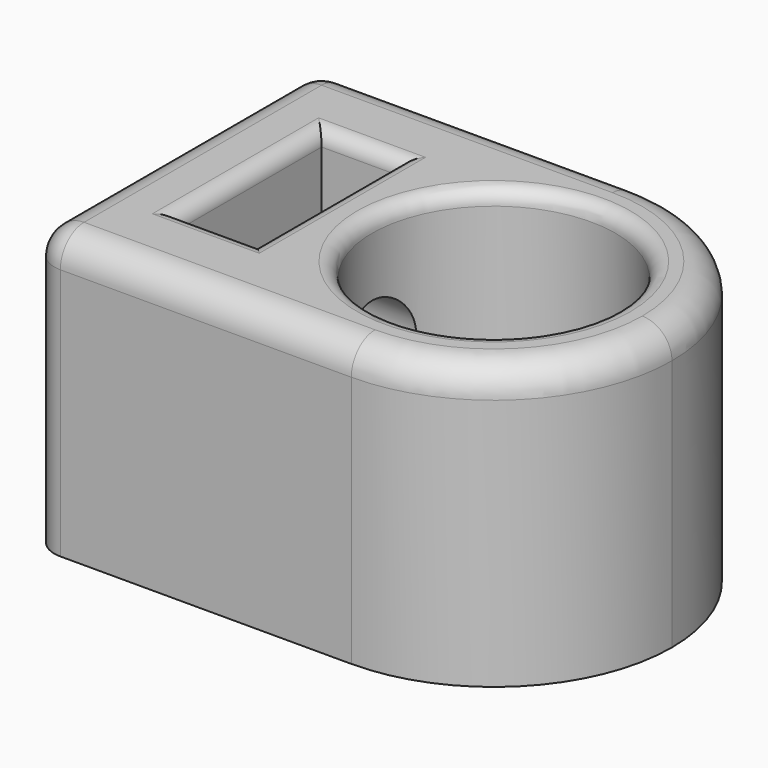
from build123d import *

# Parameters (mm, degrees)
F0_R      = 4.1
F1_DEPTH  = 12
F2_DEPTH  = 12
F4_DEPTH  = 3
F6_DEPTH  = 8
F7_DEPTH  = 9.5
F8_W      = 12
F8_H      = 2
F8_H_2    = 0.5
F9_DEPTH  = 25
F10_R     = 1
F11_R     = 0.5
F12_R     = 4.1
F13_DEPTH = 25
F14_DEPTH = 25


with BuildPart() as f1:
    # F0 (on Top) → F1 (new body)
    with BuildSketch(Plane.XY):
        with BuildLine():
            ThreePointArc((0, -6), (4.2426406871, -4.2426406871), (6, 0))
            ThreePointArc((6, 0), (4.2426406871, 4.2426406871), (0, 6))
            ThreePointArc((0, 6), (-4.2426406871, 4.2426406871), (-6, 0))
            ThreePointArc((-6, 0), (-4.2426406871, -4.2426406871), (0, -6))
        make_face()
        Circle(F0_R, mode=Mode.SUBTRACT)
    extrude(amount=F1_DEPTH)

    # F0 (on Top) → F2 (join)
    with BuildSketch(Plane.XY):
        with BuildLine():
            ThreePointArc((-6, 0), (-4.2426406871, 4.2426406871), (0, 6))
            Line((0, 6), (-6, 6))
            Line((-6, 6), (-6, 0))
        make_face()
        with BuildLine():
            Line((-6, -6), (0, -6))
            ThreePointArc((0, -6), (-4.2426406871, -4.2426406871), (-6, 0))
            Line((-6, 0), (-6, -6))
        make_face()
        Polygon((-6, -6), (-6, 0), (-6, 6), (-10.8, 6), (-10.8, -6), align=None)
    extrude(amount=F2_DEPTH)

    # F3 (on face) → F4 (cut)
    with BuildSketch(Plane.XY.offset(12)):
        Polygon((-5.6, -3), (-5.6, 0), (-5.6, 3), (-8.2, 3), (-8.2, -3), align=None)
    extrude(amount=F4_DEPTH, mode=Mode.SUBTRACT)

    # F5 (on face) → F6 (cut)
    with BuildSketch(Plane(origin=(-10.8, 0, 0), x_dir=(0, -1, 0), z_dir=(-1, 0, 0))):
        with BuildLine():
            ThreePointArc((0, 4.5), (1.0606601718, 4.9393398282), (1.5, 6))
            ThreePointArc((1.5, 6), (-1.0606601718, 7.0606601718), (0, 4.5))
        make_face()
    extrude(amount=-F6_DEPTH, mode=Mode.SUBTRACT)

    # F3 (on face) → F7 (cut)
    with BuildSketch(Plane.XY.offset(12)):
        Polygon((-5.6, -3), (-5.6, 0), (-5.6, 3), (-8.2, 3), (-8.2, -3), align=None)
        Polygon((-5.6, -3), (-5.6, 0), (-5.6, 3), (-8.2, 3), (-8.2, -3), align=None)
    extrude(amount=-F7_DEPTH, mode=Mode.SUBTRACT)

    # F8 (on face) → F9 (cut)
    with BuildSketch(Plane(origin=(-10.8, 0, 0), x_dir=(0, -1, 0), z_dir=(-1, 0, 0))):
        with Locations((0, 11)):
            Rectangle(F8_W, F8_H)
        with Locations((0, 0.25)):
            Rectangle(F8_W, F8_H_2)
    extrude(amount=-F9_DEPTH, mode=Mode.SUBTRACT)

    # F10
    f10_edges = [f1.edges().sort_by_distance(p)[0] for p in [
        (-5.4, 6, 10),
        (-10.8, 0, 10),
        (-10.8, 6, 5.25),
        (-10.8, -6, 5.25),
    ]]
    fillet(f10_edges, radius=F10_R)

    # F11
    f11_edges = [f1.edges().sort_by_distance(p)[0] for p in [
        (-10.8, 0, 7.5),
        (-8.2, 0, 10),
        (-6.9, 3, 10),
        (-5.6, 0, 10),
        (-6.9, -3, 10),
        (-4.1, 0, 10),
        (-4.1, 0, 0.5),
    ]]
    fillet(f11_edges, radius=F11_R)

    # F12 (on face) → F13 (join)
    with BuildSketch(Plane(origin=(0, 0, 0.5), x_dir=(1, 0, 0), z_dir=(0, 0, -1))):
        Circle(F12_R)
    extrude(amount=-F13_DEPTH)

    # F14 (cut): a face of the model
    f14_faces = [f1.faces().sort_by_distance(p)[0] for p in [
        (0, 0, 0.5),
    ]]
    extrude(f14_faces, amount=-F14_DEPTH, mode=Mode.SUBTRACT)


solid = f1.part
